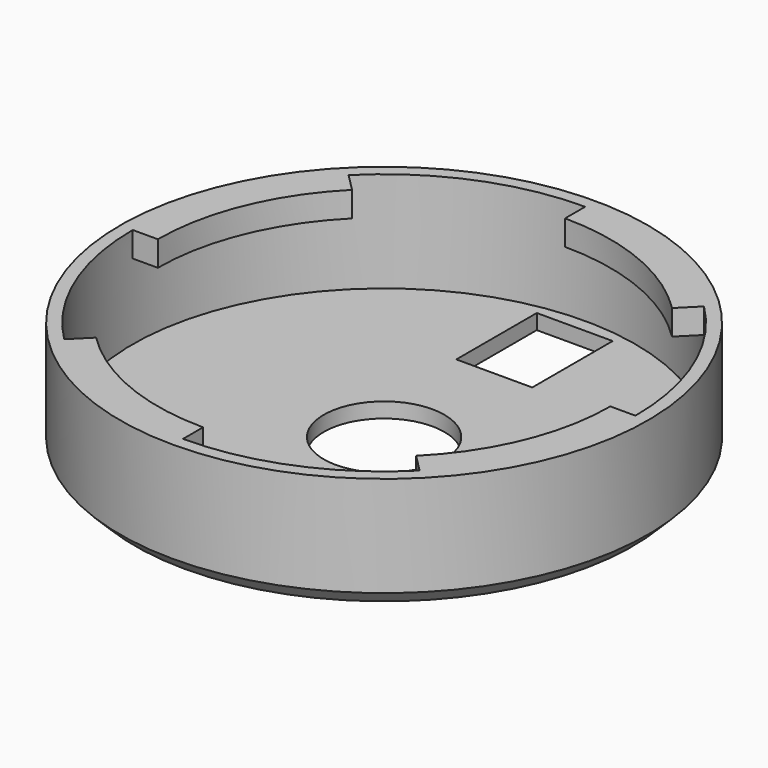
from build123d import *

# Parameters (mm, degrees)
F0_R     = 12
F1_DEPTH = 3
F2_DEPTH = 23
F4_START = 18
F4_DEPTH = 5
F5_SIZE  = 3
F6_W     = 15.1
F6_H     = 20
F7_DEPTH = 52.8


with BuildPart() as f1:
    # F0 (on Top) → F1 (new body)
    with BuildSketch(Plane.XY):
        with BuildLine():
            ThreePointArc((0, -50), (35.3553390593, -35.3553390593), (50, 0))
            ThreePointArc((50, 0), (-35.3553390593, 35.3553390593), (0, -50))
        make_face()
        Circle(F0_R, mode=Mode.SUBTRACT)
    extrude(amount=F1_DEPTH)

    # F0 (on Top) → F2 (join)
    with BuildSketch(Plane.XY):
        with BuildLine():
            ThreePointArc((52.5, 0), (-37.1231060123, 37.1231060123), (0, -52.5))
            ThreePointArc((0, -52.5), (37.1231060123, -37.1231060123), (52.5, 0))
        make_face()
        with BuildLine():
            ThreePointArc((0, -50), (-35.3553390593, 35.3553390593), (50, 0))
            ThreePointArc((50, 0), (35.3553390593, -35.3553390593), (0, -50))
        make_face(mode=Mode.SUBTRACT)
    extrude(amount=F2_DEPTH)

    # F3 (on Top) → F4 (join)
    with BuildSketch(Plane.XY.offset(F4_START)):
        with BuildLine():
            Line((31.8198051534, -31.8198051534), (35.3553390593, -35.3553390593))
            ThreePointArc((35.3553390593, -35.3553390593), (46.1939766256, -19.1341716183), (50, 0))
            Line((50, 0), (45, 0))
            ThreePointArc((45, 0), (41.574578963, -17.2207544564), (31.8198051534, -31.8198051534))
        make_face()
        with BuildLine():
            ThreePointArc((-45, 0), (-41.574578963, 17.2207544564), (-31.8198051534, 31.8198051534))
            Line((-31.8198051534, 31.8198051534), (-35.3553390593, 35.3553390593))
            ThreePointArc((-35.3553390593, 35.3553390593), (-46.1939766256, 19.1341716183), (-50, 0))
            Line((-50, 0), (-45, 0))
        make_face()
        with BuildLine():
            ThreePointArc((35.3553390593, 35.3553390593), (19.1341716183, 46.1939766256), (0, 50))
            Line((0, 50), (0, 45))
            ThreePointArc((0, 45), (17.2207544564, 41.574578963), (31.8198051534, 31.8198051534))
            Line((31.8198051534, 31.8198051534), (35.3553390593, 35.3553390593))
        make_face()
        with BuildLine():
            Line((-31.8198051534, -31.8198051534), (-35.3553390593, -35.3553390593))
            ThreePointArc((-35.3553390593, -35.3553390593), (-19.1341716183, -46.1939766256), (0, -50))
            Line((0, -50), (0, -45))
            ThreePointArc((0, -45), (-17.2207544564, -41.574578963), (-31.8198051534, -31.8198051534))
        make_face()
    extrude(amount=F4_DEPTH)

    # F5
    f5_edges = [f1.edges().sort_by_distance(p)[0] for p in [
        (0, 52.5, 0),
    ]]
    chamfer(f5_edges, length=F5_SIZE)

    # F6 (on face) → F7 (cut)
    with BuildSketch(Plane.XY.offset(3)):
        with Locations((0, 37.4)):
            Rectangle(F6_W, F6_H)
    extrude(amount=-F7_DEPTH, mode=Mode.SUBTRACT)


solid = f1.part
